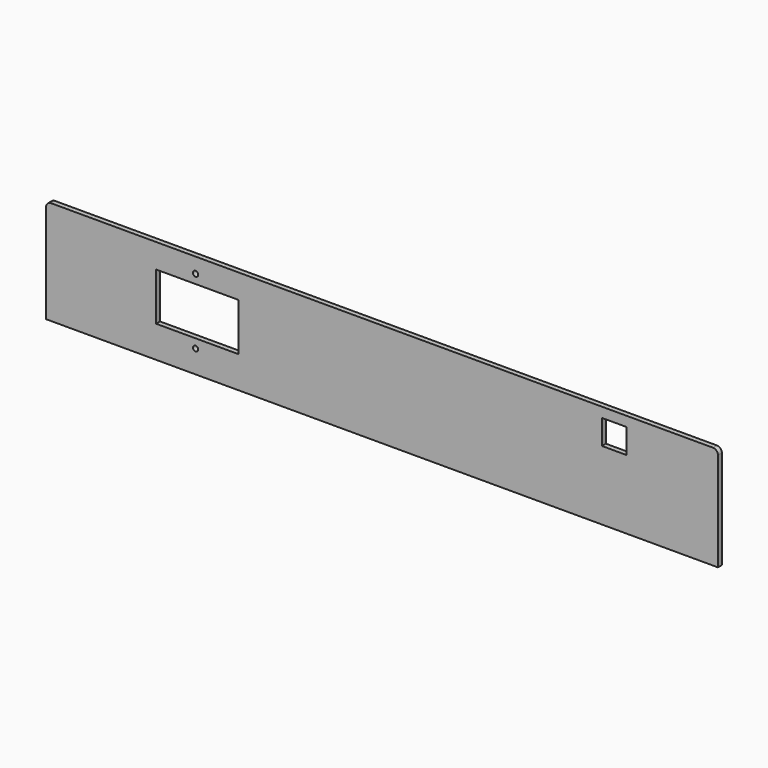
from build123d import *

# Parameters (mm, degrees)
F0_R     = 1.6
F0_W     = 50
F0_H     = 29
F0_W_2   = 15
F0_H_2   = 15
F1_DEPTH = 3


with BuildPart() as f1:
    # F0 (on Front) → F1 (new body)
    with BuildSketch(Plane.XZ):
        with BuildLine():
            Line((176.212173, -52.694491), (-225.787827, -52.694491))
            ThreePointArc((-225.787827, -52.694491), (-227.909148, -53.57317), (-228.787827, -55.694491))
            Line((-228.787827, -55.694491), (-228.787827, -115.694491))
            Line((-228.787827, -115.694491), (179.212173, -115.694491))
            Line((179.212173, -115.694491), (179.212173, -55.694491))
            ThreePointArc((179.212173, -55.694491), (178.333493, -53.57317), (176.212173, -52.694491))
        make_face()
        with Locations((-137.990355, -101.892883)):
            Circle(F0_R, mode=Mode.SUBTRACT)
        with Locations((-136.990355, -81.892883)):
            Rectangle(F0_W, F0_H, mode=Mode.SUBTRACT)
        with Locations((-137.990355, -61.892883)):
            Circle(F0_R, mode=Mode.SUBTRACT)
        with Locations((116.212173, -66.194491)):
            Rectangle(F0_W_2, F0_H_2, mode=Mode.SUBTRACT)
    extrude(amount=F1_DEPTH)


solid = f1.part
